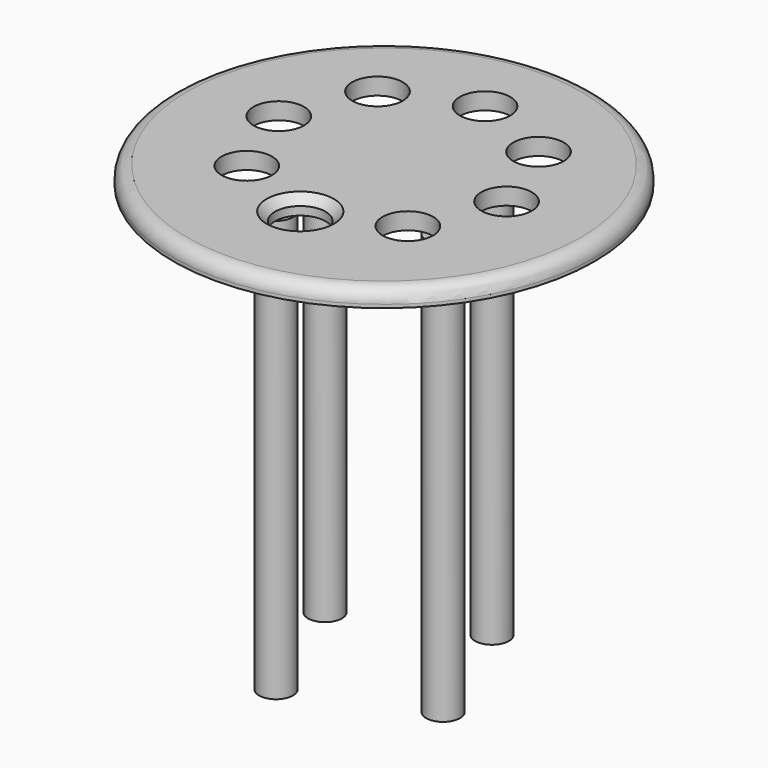
from build123d import *

# Parameters (mm, degrees)
F1_R     = 125
F1_R_2   = 15
F2_DEPTH = 10
F3_R     = 8
F4_SIZE  = 5
F5_R     = 10.046547
F6_DEPTH = 250
F7_DEPTH = 250


with BuildPart() as f2:
    # F1 (on face) → F2 (new body)
    with BuildSketch(Plane.XY):
        Circle(F1_R)
        with Locations((-48.868799, -40.720446)):
            Circle(F1_R_2, mode=Mode.SUBTRACT)
        with Locations((-0.93582, -60.962566)):
            Circle(F1_R_2, mode=Mode.SUBTRACT)
        with Locations((47.271254, -41.382171)):
            Circle(F1_R_2, mode=Mode.SUBTRACT)
        with Locations((-68.449193, 7.486627)):
            Circle(F1_R_2, mode=Mode.SUBTRACT)
        with Locations((-48.207074, 55.419606)):
            Circle(F1_R_2, mode=Mode.SUBTRACT)
        with Locations((47.932978, 54.757881)):
            Circle(F1_R_2, mode=Mode.SUBTRACT)
        with Locations((67.513373, 6.550807)):
            Circle(F1_R_2, mode=Mode.SUBTRACT)
        with Locations((0, 75)):
            Circle(F1_R_2, mode=Mode.SUBTRACT)
    extrude(amount=F2_DEPTH)

    # F3
    f3_edges = [f2.edges().sort_by_distance(p)[0] for p in [
        (-125, 0, 10),
    ]]
    fillet(f3_edges, radius=F3_R)

    # F4
    f4_edges = [f2.edges().sort_by_distance(p)[0] for p in [
        (-15.93582, -60.962566, 10),
    ]]
    chamfer(f4_edges, length=F4_SIZE)

    # F5 (on face) → F6 (join)
    with BuildSketch(Plane.XY):
        with Locations((52.640375, -21.991979)):
            Circle(F5_R)
    extrude(amount=-F6_DEPTH)

    # F5 (on face) → F7 (join)
    with BuildSketch(Plane.XY):
        with Locations((-21.991979, -52.640375)):
            Circle(F5_R)
        with Locations((52.640375, -21.991979)):
            Circle(F5_R)
        with Locations((21.991979, 52.640375)):
            Circle(F5_R)
        with Locations((-52.640375, 21.991979)):
            Circle(F5_R)
    extrude(amount=-F7_DEPTH)


solid = f2.part
